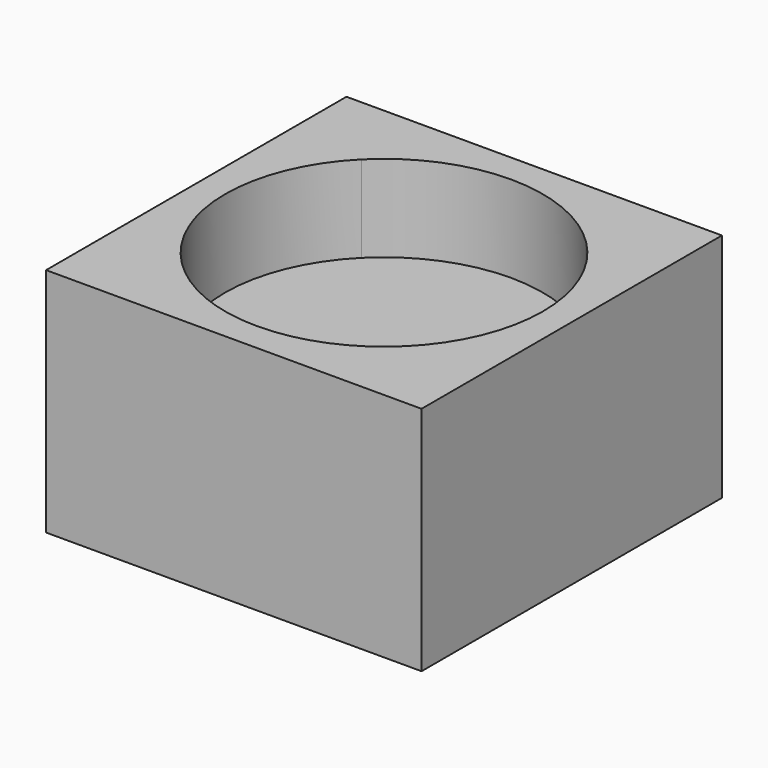
from build123d import *

# Parameters (mm, degrees)
F0_W     = 65
F0_H     = 65
F1_DEPTH = 40
F3_DEPTH = 15


with BuildPart() as f1:
    # F0 (on Top) → F1 (new body)
    with BuildSketch(Plane.XY):
        with Locations((-32.5, -32.5)):
            Rectangle(F0_W, F0_H)
    extrude(amount=F1_DEPTH)

    # F2 (on face) → F3 (cut)
    with BuildSketch(Plane.XY.offset(40)):
        with BuildLine():
            Line((-13.0545635174, -13.0545635174), (-32.5, -32.5))
            Line((-32.5, -32.5), (-13.0545635174, -51.9454364826))
            ThreePointArc((-13.0545635174, -51.9454364826), (-7.0933128559, -43.02379439), (-5, -32.5))
            ThreePointArc((-5, -32.5), (-7.0933128559, -21.97620561), (-13.0545635174, -13.0545635174))
        make_face()
        with BuildLine():
            ThreePointArc((-13.0545635174, -13.0545635174), (-32.5, -5), (-51.9454364826, -13.0545635174))
            Line((-51.9454364826, -13.0545635174), (-32.5, -32.5))
            Line((-32.5, -32.5), (-13.0545635174, -13.0545635174))
        make_face()
        with BuildLine():
            Line((-32.5, -32.5), (-51.9454364826, -13.0545635174))
            ThreePointArc((-51.9454364826, -13.0545635174), (-60, -32.5), (-51.9454364826, -51.9454364826))
            Line((-51.9454364826, -51.9454364826), (-32.5, -32.5))
        make_face()
        with BuildLine():
            Line((-13.0545635174, -51.9454364826), (-32.5, -32.5))
            Line((-32.5, -32.5), (-51.9454364826, -51.9454364826))
            ThreePointArc((-51.9454364826, -51.9454364826), (-32.5, -60), (-13.0545635174, -51.9454364826))
        make_face()
    extrude(amount=-F3_DEPTH, mode=Mode.SUBTRACT)


solid = f1.part
